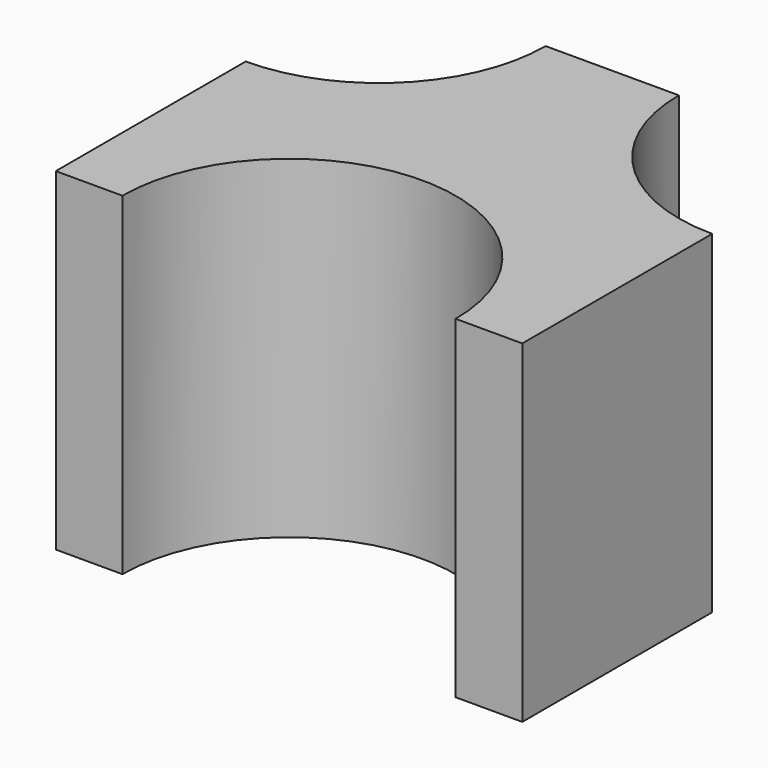
from build123d import *

# Parameters (mm, degrees)
PAD_DEPTH = 10


with BuildPart() as part:
    # Sketch → Pad (new body)
    with BuildSketch(Plane.XY):
        with BuildLine():
            ThreePointArc((5, 0), (0, 5), (-5, 0))
            Line((-7, 0), (-5, 0))
            Line((-7, 7.124356), (-7, 0))
            ThreePointArc((-7, 7.124356), (-3.464466, 8.588822), (-2, 12.124356))
            Line((2, 12.124356), (-2, 12.124356))
            ThreePointArc((2, 12.124356), (3.464466, 8.588822), (7, 7.124356))
            Line((7, 0), (7, 7.124356))
            Line((5, 0), (7, 0))
        make_face()
    extrude(amount=PAD_DEPTH)


solid = part.part
